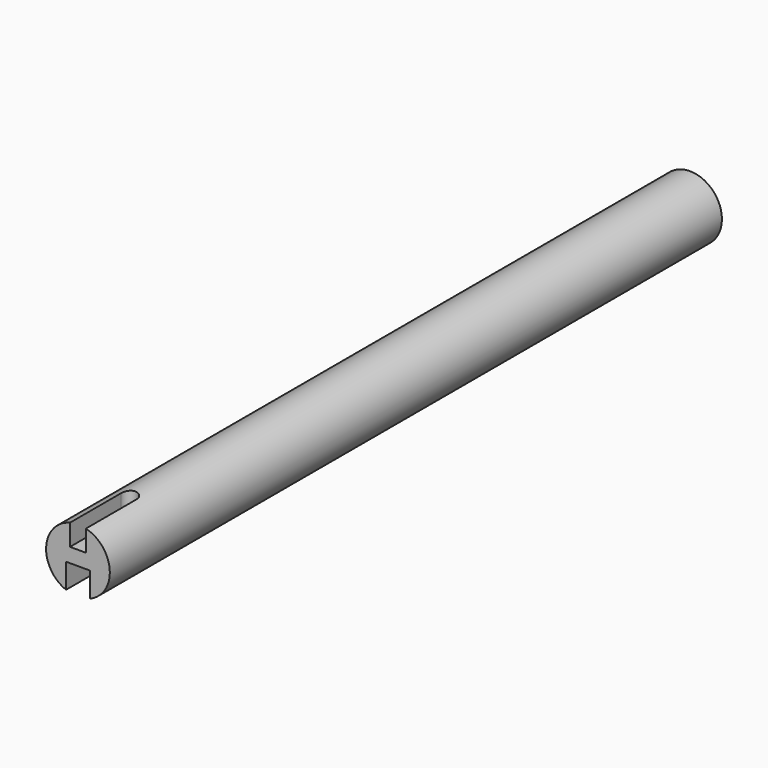
from build123d import *

# Parameters (mm, degrees)
F0_R     = 12.7
F1_DEPTH = 304.8
F3_DEPTH = 25.4
F7_DEPTH = 8.89
F9_DEPTH = 10.795


with BuildPart() as f1:
    # F0 (on Front) → F1 (new body)
    with BuildSketch(Plane.XZ):
        Circle(F0_R)
    extrude(amount=-F1_DEPTH)

    # F2 (on face) → F3 (cut)
    with BuildSketch(Plane.XZ):
        with BuildLine():
            ThreePointArc((3.175, 12.296722), (0, 12.7), (-3.175, 12.296722))
            Line((-3.175, 12.296722), (-3.175, 3.81))
            Line((-3.175, 3.81), (3.175, 3.81))
            Line((3.175, 3.81), (3.175, 12.296722))
        make_face()
        with BuildLine():
            Line((-4.7625, -1.905), (-4.7625, -11.773215))
            ThreePointArc((-4.7625, -11.773215), (0, -12.7), (4.7625, -11.773215))
            Line((4.7625, -11.773215), (4.7625, -1.905))
            Line((4.7625, -1.905), (-4.7625, -1.905))
        make_face()
    extrude(amount=-F3_DEPTH, mode=Mode.SUBTRACT)

    # F6 (on offset) → F7 (cut, through all)
    with BuildSketch(Plane.XY.offset(12.7)):
        with BuildLine():
            Line((-3.175, 25.4), (3.175, 25.4))
            ThreePointArc((3.175, 25.4), (0, 28.575), (-3.175, 25.4))
        make_face()
    extrude(amount=-F7_DEPTH, mode=Mode.SUBTRACT)

    # F8 (on offset) → F9 (cut, through all)
    with BuildSketch(Plane.XY.offset(-12.7)):
        with BuildLine():
            ThreePointArc((4.7625, 25.4), (0, 30.1625), (-4.7625, 25.4))
            Line((-4.7625, 25.4), (4.7625, 25.4))
        make_face()
    extrude(amount=F9_DEPTH, mode=Mode.SUBTRACT)


solid = f1.part
